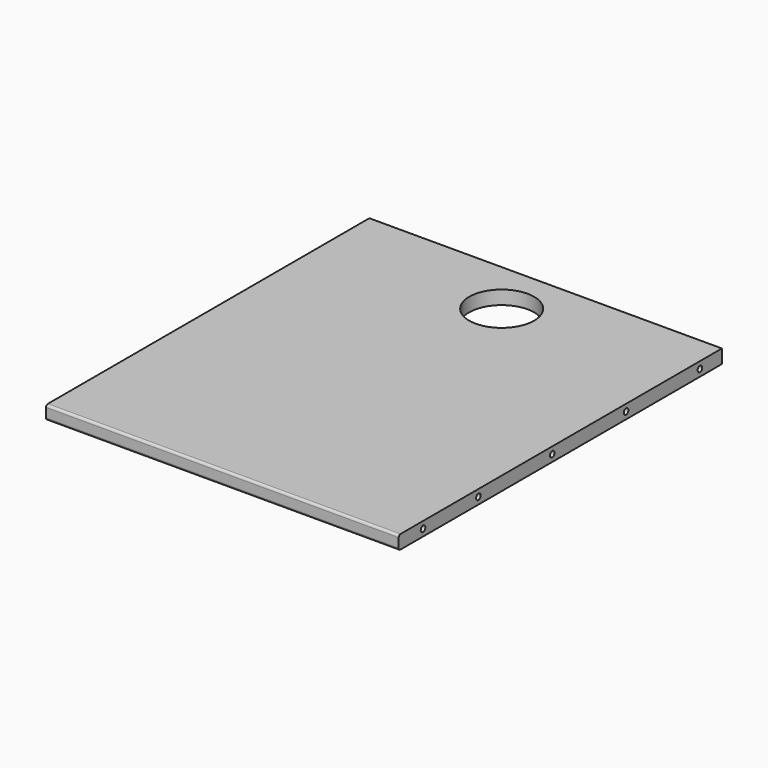
from build123d import *

# Parameters (mm, degrees)
F0_W      = 488.95
F0_H      = 560.3875
F1_DEPTH  = 19.05
F3_R      = 4
F4_DEPTH  = 26.9875
F5_SIZE   = 1.5875
F13_ANGLE = 90
F22_R     = 3.175
F23_R     = 45
F24_DEPTH = 19.051


with BuildPart() as f1:
    # F0 (on Top) → F1 (new body)
    with BuildSketch(Plane.XY):
        Rectangle(F0_W, F0_H)
    extrude(amount=-F1_DEPTH)


with BuildPart() as f4:
    # F3 (on Right) → F4 (new body)
    with BuildSketch(Plane.YZ):
        with Locations((-271.8283832073, -132.3440223932)):
            Circle(F3_R)
    extrude(amount=-F4_DEPTH)

    # F5
    f5_edges = [f4.edges().sort_by_distance(p)[0] for p in [
        (-26.9875, -275.828383, -132.344022),
    ]]
    chamfer(f5_edges, length=F5_SIZE)


with BuildPart() as f6_1:
    # F6: copy of F4
    add(f4.part.moved(Location((244.475, 33.9221332073, 122.8190223932))))


with BuildPart() as f7_1:
    # F7: copy of F4
    add(f4.part.moved(Location((244.475, 129.9221332073, 122.8190223932))))


with BuildPart() as f8_1:
    # F8: copy of F4
    add(f4.part.moved(Location((244.475, 257.9221332073, 122.8190223932))))


with BuildPart() as f9_1:
    # F9: copy of F4
    add(f4.part.moved(Location((244.475, 385.9221332073, 122.8190223932))))


with BuildPart() as f10_1:
    # F10: copy of F4
    add(f4.part.moved(Location((244.475, 513.9221332073, 122.8190223932))))


with BuildPart() as f11_1:
    # F11: instance of F6_1
    add(f6_1.part.mirror(Plane.YZ))


with BuildPart() as f11_2:
    # F11: instance of F7_1
    add(f7_1.part.mirror(Plane.YZ))


with BuildPart() as f11_3:
    # F11: instance of F8_1
    add(f8_1.part.mirror(Plane.YZ))


with BuildPart() as f11_4:
    # F11: instance of F9_1
    add(f9_1.part.mirror(Plane.YZ))


with BuildPart() as f11_5:
    # F11: instance of F10_1
    add(f10_1.part.mirror(Plane.YZ))


with BuildPart() as f1_1:
    add(f1.part)

    # F12: cut F11_1, F11_2, F11_3, F11_4, F11_5, F10_1, F9_1, F8_1, F7_1, F6_1
    add(f11_1.part, mode=Mode.SUBTRACT)
    add(f11_2.part, mode=Mode.SUBTRACT)
    add(f11_3.part, mode=Mode.SUBTRACT)
    add(f11_4.part, mode=Mode.SUBTRACT)
    add(f11_5.part, mode=Mode.SUBTRACT)
    add(f10_1.part, mode=Mode.SUBTRACT)
    add(f9_1.part, mode=Mode.SUBTRACT)
    add(f8_1.part, mode=Mode.SUBTRACT)
    add(f7_1.part, mode=Mode.SUBTRACT)
    add(f6_1.part, mode=Mode.SUBTRACT)


with BuildPart() as f4_1:
    # F13: moved
    add(f4.part.rotate(Axis((244.475, -280.19375, -9.525), (0, 0, 1)), F13_ANGLE))


with BuildPart() as f16_1:
    # F16: copy of F4
    add(f4_1.part.moved(Location((-442.4846332073, 804.8625, 122.8190223932))))


with BuildPart() as f17_1:
    # F17: copy of F4
    add(f4_1.part.moved(Location((-314.4846332073, 804.8625, 122.8190223932))))


with BuildPart() as f18_1:
    # F18: copy of F4
    add(f4_1.part.moved(Location((-285.7346332073, 804.8625, 122.8190223932))))


with BuildPart() as f19_1:
    # F19: copy of F4
    add(f4_1.part.moved(Location((-157.7346332073, 804.8625, 122.8190223932))))


with BuildPart() as f4_2:
    # F20: moved
    add(f4_1.part.moved(Location((-29.7346332073, 804.8625, 122.8190223932))))


with BuildPart() as f1_2:
    add(f1_1.part)

    # F21: cut F16_1, F17_1, F18_1, F19_1, F4
    add(f16_1.part, mode=Mode.SUBTRACT)
    add(f17_1.part, mode=Mode.SUBTRACT)
    add(f18_1.part, mode=Mode.SUBTRACT)
    add(f19_1.part, mode=Mode.SUBTRACT)
    add(f4_2.part, mode=Mode.SUBTRACT)

    # F22
    f22_edges = [f1_2.edges().sort_by_distance(p)[0] for p in [
        (0, -280.19375, -19.05),
        (0, -280.19375, 0),
    ]]
    fillet(f22_edges, radius=F22_R)

    # F23 (on face) → F24 (cut, through all)
    with BuildSketch(Plane.XY):
        with Locations((0, 203.99375)):
            Circle(F23_R)
    extrude(amount=-F24_DEPTH, mode=Mode.SUBTRACT)


solid = f1_2.part
